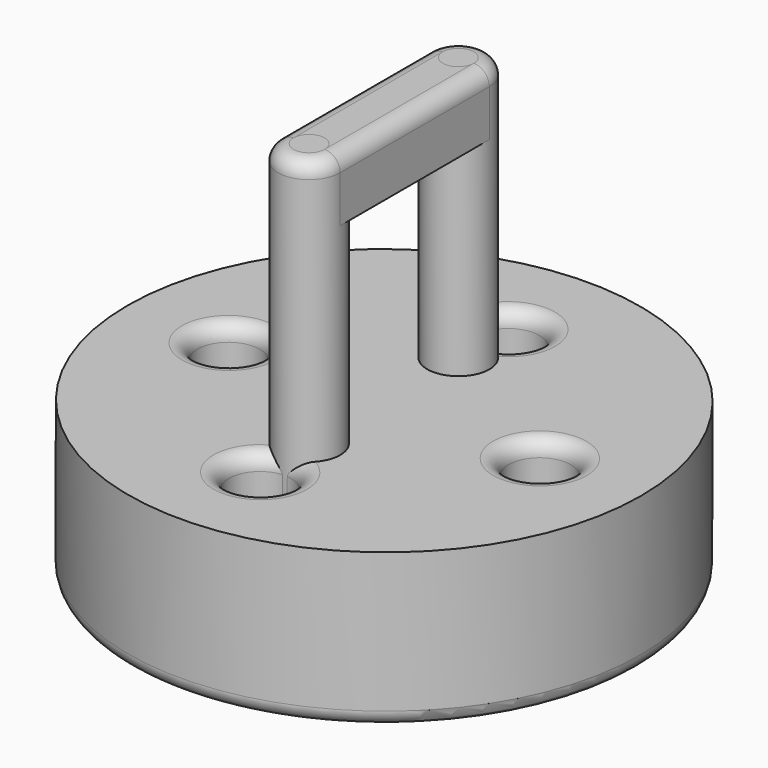
from build123d import *

# Parameters (mm, degrees)
BOX_W                  = 4
BOX_H                  = 12
BOX_DEPTH              = 4
FILLET_R               = 1
CYLINDER007_R          = 2
CYLINDER007_DEPTH      = 25
FILLET001_R            = 1
CYLINDER006_R          = 2
CYLINDER006_DEPTH      = 25
FILLET002_R            = 1
CYLINDER004_R          = 2
CYLINDER004_DEPTH      = 10
CYLINDER002_R          = 2
CYLINDER002_DEPTH      = 10
CYLINDER001_R          = 2
CYLINDER001_DEPTH      = 10
CYLINDER005_R          = 2
CYLINDER005_DEPTH      = 10
CYLINDER_R             = 16.5
CYLINDER_DEPTH         = 10
CUT003_ROLL_ANGLE      = -0.106715
CUT003_PITCH_ANGLE     = 0.13799
CUT003_PLACEMENT_ANGLE = 0.079601
FILLET003_R            = 1


with BuildPart() as fillet_body:
    # Box → Box (new body)
    with BuildSketch(Plane(origin=(-2, -6, 16), x_dir=(1, 0, 0), z_dir=(0, 0, 1))):
        with Locations((2, 6)):
            Rectangle(BOX_W, BOX_H)
    extrude(amount=BOX_DEPTH)

    # Fillet
    fillet_edges = [fillet_body.edges().sort_by_distance(p)[0] for p in [
        (-2, 0, 20),
        (2, 0, 20),
    ]]
    fillet(fillet_edges, radius=FILLET_R)


with BuildPart() as fillet001:
    # Cylinder007 → Cylinder007 (new body)
    with BuildSketch(Plane(origin=(0, -6, -5), x_dir=(1, 0, 0), z_dir=(0, 0, 1))):
        Circle(CYLINDER007_R)
    extrude(amount=CYLINDER007_DEPTH)

    # Fillet001
    fillet001_edges = [fillet001.edges().sort_by_distance(p)[0] for p in [
        (-2, -6, 20),
    ]]
    fillet(fillet001_edges, radius=FILLET001_R)


with BuildPart() as fillet002:
    # Cylinder006 → Cylinder006 (new body)
    with BuildSketch(Plane(origin=(0, 6, -5), x_dir=(1, 0, 0), z_dir=(0, 0, 1))):
        Circle(CYLINDER006_R)
    extrude(amount=CYLINDER006_DEPTH)

    # Fillet002
    fillet002_edges = [fillet002.edges().sort_by_distance(p)[0] for p in [
        (-2, 6, 20),
    ]]
    fillet(fillet002_edges, radius=FILLET002_R)


with BuildPart() as cylindre004:
    # Cylinder004 → Cylinder004 (new body)
    with BuildSketch(Plane(origin=(-10, 0, 0), x_dir=(1, 0, 0), z_dir=(0, 0, 1))):
        Circle(CYLINDER004_R)
    extrude(amount=CYLINDER004_DEPTH)


with BuildPart() as cylindre002:
    # Cylinder002 → Cylinder002 (new body)
    with BuildSketch(Plane(origin=(0, -10, 0), x_dir=(1, 0, 0), z_dir=(0, 0, 1))):
        Circle(CYLINDER002_R)
    extrude(amount=CYLINDER002_DEPTH)


with BuildPart() as cylindre001:
    # Cylinder001 → Cylinder001 (new body)
    with BuildSketch(Plane(origin=(0, 10, 0), x_dir=(1, 0, 0), z_dir=(0, 0, 1))):
        Circle(CYLINDER001_R)
    extrude(amount=CYLINDER001_DEPTH)


with BuildPart() as cylindre005:
    # Cylinder005 → Cylinder005 (new body)
    with BuildSketch(Plane(origin=(10, 0, 0), x_dir=(1, 0, 0), z_dir=(0, 0, 1))):
        Circle(CYLINDER005_R)
    extrude(amount=CYLINDER005_DEPTH)


with BuildPart() as base001:
    # Cylinder → Cylinder (new body)
    with BuildSketch(Plane.XY):
        Circle(CYLINDER_R)
    extrude(amount=CYLINDER_DEPTH)

    # Cut: cut Cylindre005
    add(cylindre005.part, mode=Mode.SUBTRACT)

    # Cut001: cut Cylindre001
    add(cylindre001.part, mode=Mode.SUBTRACT)

    # Cut002: cut Cylindre002
    add(cylindre002.part, mode=Mode.SUBTRACT)

    # Cut003: cut Cylindre004
    add(cylindre004.part, mode=Mode.SUBTRACT)


with BuildPart() as base001_1:
    # Cut003 roll: moved
    add(base001.part.rotate(Axis((0, 0, 0), (1, 0, 0)), CUT003_ROLL_ANGLE))


with BuildPart() as base001_2:
    # Cut003 pitch: moved
    add(base001_1.part.rotate(Axis((0, 0, 0), (0, 1, 0)), CUT003_PITCH_ANGLE))


with BuildPart() as base001_3:
    # Cut003 placement: moved
    add(base001_2.part.moved(Location((0, 0, -7))).rotate(Axis((0, 0, -7), (0, 0, 1)), CUT003_PLACEMENT_ANGLE))

    # Fillet003
    fillet003_edges = [base001_3.edges().sort_by_distance(p)[0] for p in [
        (-16.499936, -0.022923, -6.960262),
        (-11.975896, 0.001987, 3.028854),
        (-1.989872, 10.015853, 2.986145),
        (-1.961997, -9.984093, 3.023396),
        (8.024027, 0.029773, 2.980687),
        (-11.999954, -0.016672, -6.971099),
        (-2.01393, 9.997194, -7.013808),
        (-1.986054, -10.002752, -6.976558),
        (7.999969, 0.011114, -7.019267),
    ]]
    fillet(fillet003_edges, radius=FILLET003_R)


solid = Compound([fillet_body.part, fillet001.part, fillet002.part, base001_3.part])
